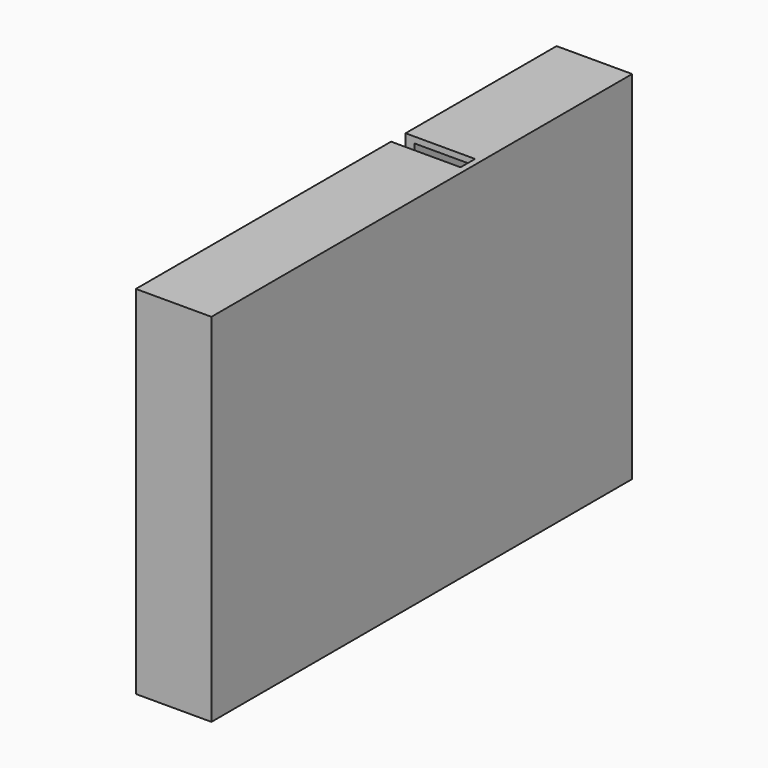
from build123d import *

# Parameters (mm, degrees)
SKETCH_W        = 12.5
SKETCH_H        = 59
SKETCH_W_2      = 10
SKETCH_H_2      = 57
PAD_DEPTH       = 85
SKETCH001_W     = 12.5
SKETCH001_H     = 59
PAD001_DEPTH    = 2
POCKET_DEPTH    = 5
SKETCH003_W     = 20.915616
SKETCH003_H     = 3
POCKET001_DEPTH = 59.001


with BuildPart() as part:
    # Sketch → Pad (new body)
    with BuildSketch(Plane.XZ):
        with Locations((6.25, 29.5)):
            Rectangle(SKETCH_W, SKETCH_H)
        with Locations((6.5, 29.5)):
            Rectangle(SKETCH_W_2, SKETCH_H_2, mode=Mode.SUBTRACT)
    extrude(amount=PAD_DEPTH)

    # Sketch001 → Pad001 (new body)
    with BuildSketch(Plane.XZ.offset(85)):
        with Locations((6.25, 29.5)):
            Rectangle(SKETCH001_W, SKETCH001_H)
    extrude(amount=PAD001_DEPTH)

    # Sketch002 → Pocket (cut)
    with BuildSketch(Plane(origin=(0, 0, 0), x_dir=(0, 0, -1), z_dir=(-1, 0, 0))):
        with BuildLine():
            add(Edge.make_bspline(
                [(-29.5, -16), (-12.179492, -16), (-20.839746, 8), (-29.5, 32), (-38.160254, 8), (-46.820508, -16), (-29.5, -16)],
                knots=[0, 0, 0, 2.094395, 2.094395, 4.18879, 4.18879, 6.283185, 6.283185, 6.283185], degree=2, weights=[1, 0.5, 1, 0.5, 1, 0.5, 1]))
        make_face()
    extrude(amount=-POCKET_DEPTH, mode=Mode.SUBTRACT)

    # Sketch003 → Pocket001 (cut, through all)
    with BuildSketch(Plane(origin=(0, 0, 59), x_dir=(-1, 0, 0), z_dir=(0, 0, 1))):
        with Locations((-1.042192, 32.729344)):
            Rectangle(SKETCH003_W, SKETCH003_H)
    extrude(amount=-POCKET001_DEPTH, mode=Mode.SUBTRACT)


solid = part.part
